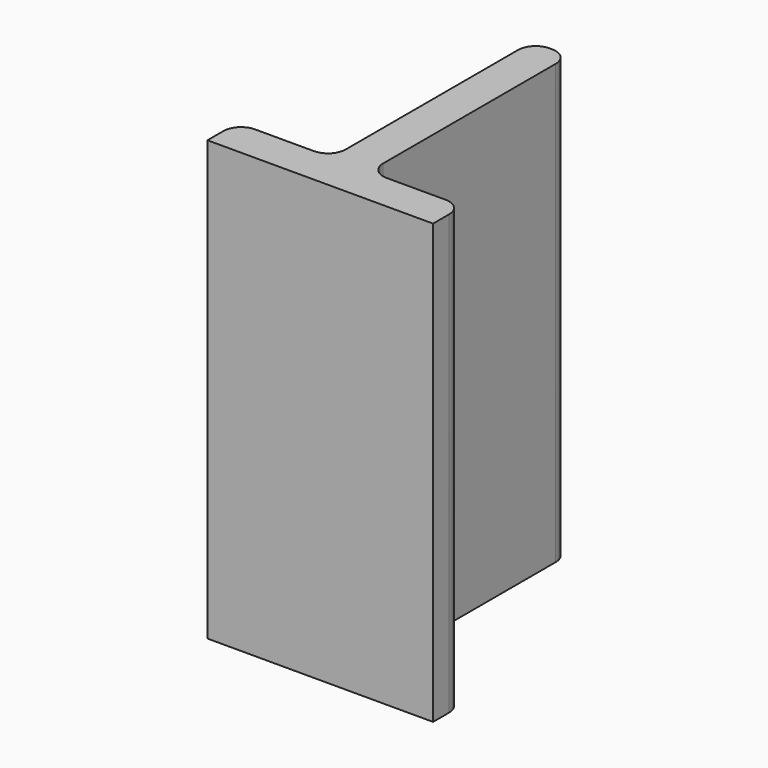
from build123d import *

# Parameters (mm, degrees)
PAD_DEPTH = 35
FILLET_R  = 1.4


with BuildPart() as part:
    # Sketch → Pad (new body)
    with BuildSketch(Plane.XY):
        Polygon((-9, 0), (9, 0), (9, 3), (1.5, 3), (1.5, 23), (-1.5, 23), (-1.5, 3), (-9, 3), align=None)
    extrude(amount=PAD_DEPTH)

    # Fillet
    fillet_edges = [part.edges().sort_by_distance(p)[0] for p in [
        (9, 3, 17.5),
        (-9, 3, 17.5),
        (1.5, 3, 17.5),
        (-1.5, 3, 17.5),
        (1.5, 23, 17.5),
        (-1.5, 23, 17.5),
    ]]
    fillet(fillet_edges, radius=FILLET_R)


solid = part.part
